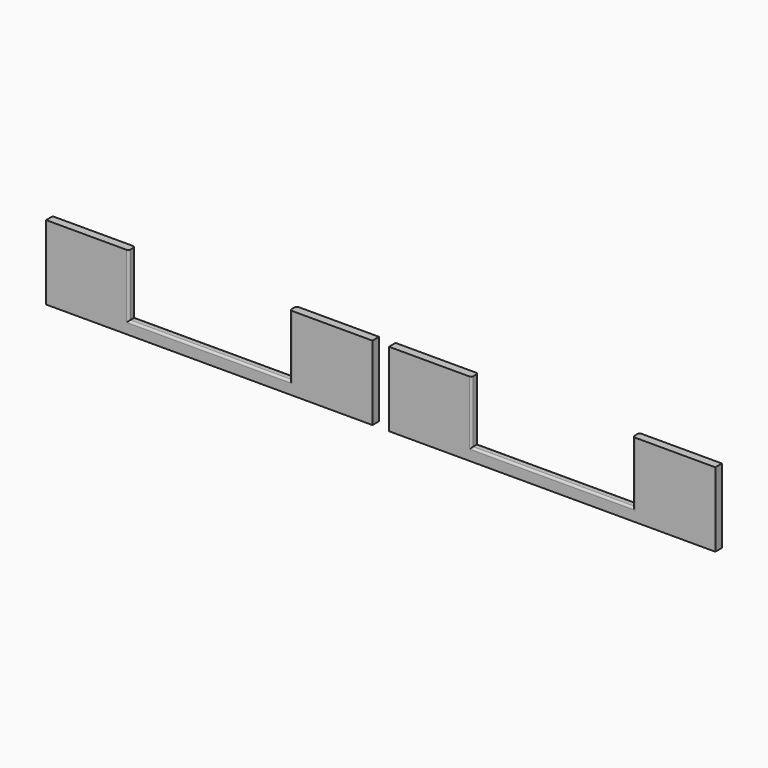
from build123d import *

# Parameters (mm, degrees)
EXTRUDE_DEPTH = 2
FILLET002_R   = 0.5


with BuildPart() as front_side:
    # Sketch002 → Extrude (new body)
    with BuildSketch(Plane.XZ):
        Polygon((0, 2), (0, 20), (20, 20), (20, 5), (59, 5), (59, 20), (79, 20), (79, 2), align=None)
        Polygon((162, 2), (162, 20), (142, 20), (142, 5), (103, 5), (103, 20), (83, 20), (83, 2), align=None)
    extrude(amount=-EXTRUDE_DEPTH)


with BuildPart() as back_row:
    # Part__Mirroring: instance of front side
    add(front_side.part.mirror(Plane(origin=(0, 0, 0), x_dir=(1, 0, 0), z_dir=(0, 1, 0))))


with BuildPart() as back_row_1:
    # Part__Mirroring placement: moved
    add(back_row.part.moved(Location((0, 44, 0))))

    # Fillet002
    fillet002_edges = [back_row_1.edges().sort_by_distance(p)[0] for p in [
        (142, 44, 12.5),
        (142, 42, 12.5),
        (122.5, 44, 5),
        (122.5, 42, 5),
        (103, 44, 12.5),
        (103, 42, 12.5),
        (20, 44, 12.5),
        (20, 42, 12.5),
        (39.5, 44, 5),
        (39.5, 42, 5),
        (59, 44, 12.5),
        (59, 42, 12.5),
    ]]
    fillet(fillet002_edges, radius=FILLET002_R)


solid = back_row_1.part
